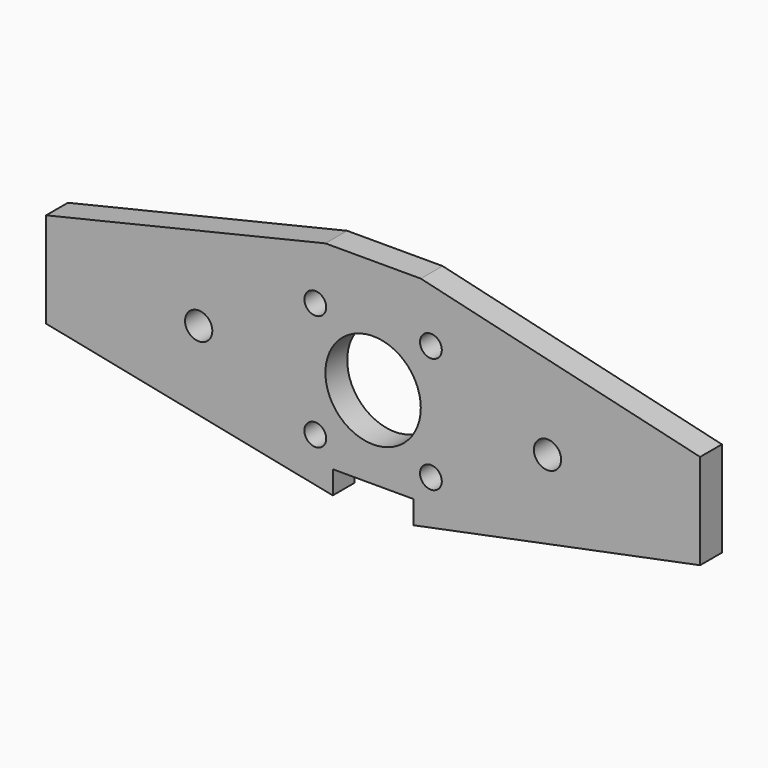
from build123d import *

# Parameters (mm, degrees)
F0_R     = 1.27
F0_R_2   = 1.5875
F0_R_3   = 5.55625
F1_DEPTH = 3.175


with BuildPart() as f1:
    # F0 (on Front) → F1 (new body)
    with BuildSketch(Plane.XZ):
        Polygon((4.698286, -12.312303), (38.1, -5.55625), (38.1, 5.55625), (5.55625, 13.26261), (-5.55625, 13.26261), (-38.1, 5.55625), (-38.1, -5.55625), (-4.698286, -12.312303), (-4.698286, -9.621484), (4.698286, -9.621484), align=None)
        with Locations((-6.734358, -6.736026)):
            Circle(F0_R, mode=Mode.SUBTRACT)
        with Locations((-20.32, 0)):
            Circle(F0_R_2, mode=Mode.SUBTRACT)
        with Locations((6.734358, -6.734358)):
            Circle(F0_R, mode=Mode.SUBTRACT)
        Circle(F0_R_3, mode=Mode.SUBTRACT)
        with Locations((20.32, 0)):
            Circle(F0_R_2, mode=Mode.SUBTRACT)
        with Locations((-6.736026, 6.736026)):
            Circle(F0_R, mode=Mode.SUBTRACT)
        with Locations((6.736026, 6.734358)):
            Circle(F0_R, mode=Mode.SUBTRACT)
    extrude(amount=F1_DEPTH)


solid = f1.part
